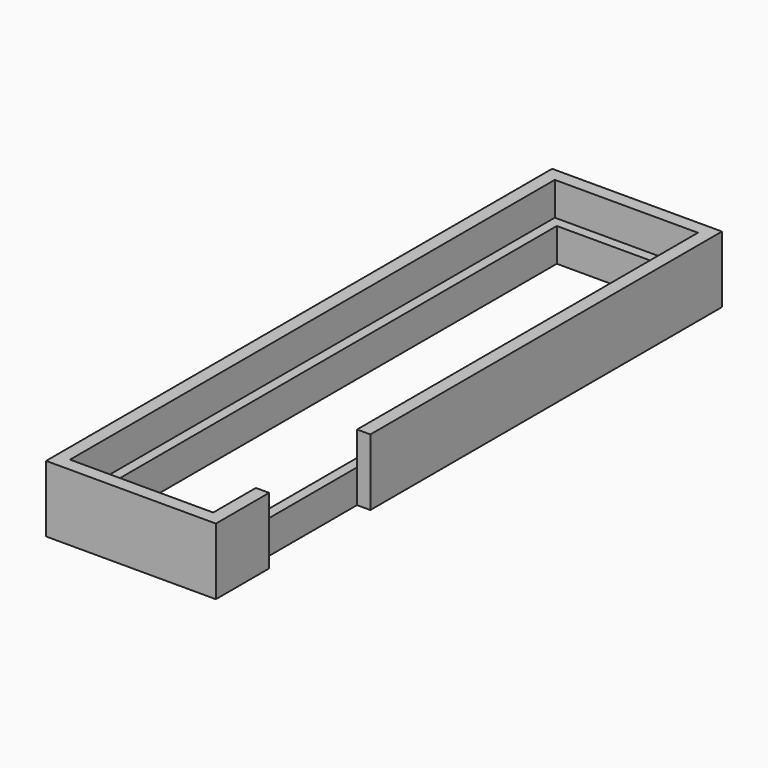
from build123d import *

# Parameters (mm, degrees)
BOX015_W     = 25.5
BOX015_H     = 2
BOX015_DEPTH = 10
BOX016_W     = 2
BOX016_H     = 8
BOX016_DEPTH = 10
BOX017_W     = 2
BOX017_H     = 64
BOX017_DEPTH = 10
BOX014_W     = 25.5
BOX014_H     = 2
BOX014_DEPTH = 10
BOX013_W     = 2
BOX013_H     = 91
BOX013_DEPTH = 10
BOX011_W     = 18.5
BOX011_H     = 88
BOX011_DEPTH = 5
BOX010_W     = 21.5
BOX010_H     = 91
BOX010_DEPTH = 5


with BuildPart() as frame_top:
    # Box015 → Box015 (new body)
    with BuildSketch(Plane(origin=(-2, 91, 0), x_dir=(1, 0, 0), z_dir=(0, 0, 1))):
        with Locations((12.75, 1)):
            Rectangle(BOX015_W, BOX015_H)
    extrude(amount=BOX015_DEPTH)


with BuildPart() as frame_right_bottom:
    # Box016 → Box016 (new body)
    with BuildSketch(Plane(origin=(21.5, 0, 0), x_dir=(1, 0, 0), z_dir=(0, 0, 1))):
        with Locations((1, 4)):
            Rectangle(BOX016_W, BOX016_H)
    extrude(amount=BOX016_DEPTH)


with BuildPart() as frame_right_top:
    # Box017 → Box017 (new body)
    with BuildSketch(Plane(origin=(21.5, 27, 0), x_dir=(1, 0, 0), z_dir=(0, 0, 1))):
        with Locations((1, 32)):
            Rectangle(BOX017_W, BOX017_H)
    extrude(amount=BOX017_DEPTH)


with BuildPart() as frame_bottom:
    # Box014 → Box014 (new body)
    with BuildSketch(Plane(origin=(-2, -2, 0), x_dir=(1, 0, 0), z_dir=(0, 0, 1))):
        with Locations((12.75, 1)):
            Rectangle(BOX014_W, BOX014_H)
    extrude(amount=BOX014_DEPTH)


with BuildPart() as frame:
    # Box013 → Box013 (new body)
    with BuildSketch(Plane(origin=(-2, 0, 0), x_dir=(1, 0, 0), z_dir=(0, 0, 1))):
        with Locations((1, 45.5)):
            Rectangle(BOX013_W, BOX013_H)
    extrude(amount=BOX013_DEPTH)

    # Fusion: union frame_bottom
    add(frame_bottom.part)

    # Fusion001: union frame_right_top
    add(frame_right_top.part)

    # Fusion002: union frame_right_bottom
    add(frame_right_bottom.part)

    # Fusion003: union frame_top
    add(frame_top.part)


with BuildPart() as cube005:
    # Box011 → Box011 (new body)
    with BuildSketch(Plane(origin=(1.5, 1.5, 0), x_dir=(1, 0, 0), z_dir=(0, 0, 1))):
        with Locations((9.25, 44)):
            Rectangle(BOX011_W, BOX011_H)
    extrude(amount=BOX011_DEPTH)


with BuildPart() as fusion004:
    # Box010 → Box010 (new body)
    with BuildSketch(Plane.XY):
        with Locations((10.75, 45.5)):
            Rectangle(BOX010_W, BOX010_H)
    extrude(amount=BOX010_DEPTH)

    # Cut006: cut Cube005
    add(cube005.part, mode=Mode.SUBTRACT)

    # Fusion004: union frame
    add(frame.part)


solid = fusion004.part
